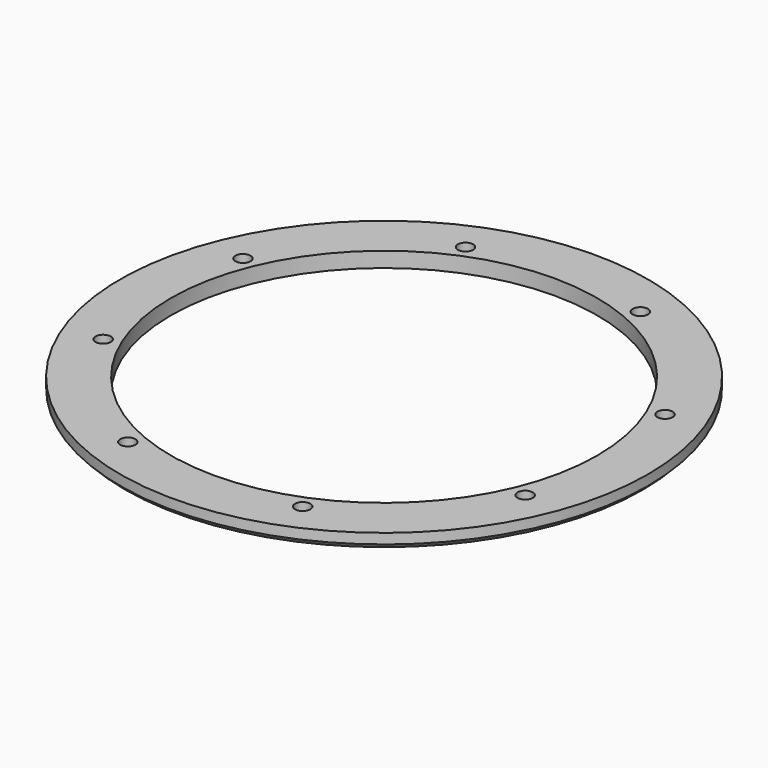
from build123d import *

# Parameters (mm, degrees)
CYLINDER658_R               = 1.5
CYLINDER658_DEPTH           = 20
CYLINDER658_PLACEMENT_ANGLE = 45
CYLINDER659_R               = 1.5
CYLINDER659_DEPTH           = 20
CYLINDER652_R               = 1.5
CYLINDER652_DEPTH           = 20
CYLINDER652_PLACEMENT_ANGLE = 135
CYLINDER655_R               = 1.5
CYLINDER655_DEPTH           = 20
CYLINDER657_R               = 1.5
CYLINDER657_DEPTH           = 20
CYLINDER657_PLACEMENT_ANGLE = 225
CYLINDER654_R               = 1.5
CYLINDER654_DEPTH           = 20
CYLINDER656_R               = 1.5
CYLINDER656_DEPTH           = 20
CYLINDER656_PLACEMENT_ANGLE = 45
CYLINDER653_R               = 1.5
CYLINDER653_DEPTH           = 20
COMPOUND660_PLACEMENT_ANGLE = 22.5
TUBE040_R                   = 52
TUBE040_R_2                 = 42
TUBE040_DEPTH               = 3
CHAMFER018_SIZE             = 1


with BuildPart() as obj1:
    # Cylinder658 → Cylinder658 (new body)
    with BuildSketch(Plane.XY):
        Circle(CYLINDER658_R)
    extrude(amount=CYLINDER658_DEPTH)


with BuildPart() as obj1_1:
    # Cylinder658 placement: moved
    add(obj1.part.moved(Location((-31.819805, 31.819805, -18))).rotate(Axis((-31.819805, 31.819805, -18), (0, 0, 1)), CYLINDER658_PLACEMENT_ANGLE))


with BuildPart() as obj2:
    # Cylinder659 → Cylinder659 (new body)
    with BuildSketch(Plane(origin=(-45, 0, -18), x_dir=(0, 1, 0), z_dir=(0, 0, 1))):
        Circle(CYLINDER659_R)
    extrude(amount=CYLINDER659_DEPTH)


with BuildPart() as obj3:
    # Cylinder652 → Cylinder652 (new body)
    with BuildSketch(Plane.XY):
        Circle(CYLINDER652_R)
    extrude(amount=CYLINDER652_DEPTH)


with BuildPart() as obj3_1:
    # Cylinder652 placement: moved
    add(obj3.part.moved(Location((-31.819805, -31.819805, -18))).rotate(Axis((-31.819805, -31.819805, -18), (0, 0, 1)), CYLINDER652_PLACEMENT_ANGLE))


with BuildPart() as obj4:
    # Cylinder655 → Cylinder655 (new body)
    with BuildSketch(Plane(origin=(0, -45, -18), x_dir=(-1, 0, 0), z_dir=(0, 0, 1))):
        Circle(CYLINDER655_R)
    extrude(amount=CYLINDER655_DEPTH)


with BuildPart() as obj5:
    # Cylinder657 → Cylinder657 (new body)
    with BuildSketch(Plane.XY):
        Circle(CYLINDER657_R)
    extrude(amount=CYLINDER657_DEPTH)


with BuildPart() as obj5_1:
    # Cylinder657 placement: moved
    add(obj5.part.moved(Location((31.819805, -31.819805, -18))).rotate(Axis((31.819805, -31.819805, -18), (0, 0, 1)), CYLINDER657_PLACEMENT_ANGLE))


with BuildPart() as obj6:
    # Cylinder654 → Cylinder654 (new body)
    with BuildSketch(Plane(origin=(45, 0, -18), x_dir=(0, -1, 0), z_dir=(0, 0, 1))):
        Circle(CYLINDER654_R)
    extrude(amount=CYLINDER654_DEPTH)


with BuildPart() as obj7:
    # Cylinder656 → Cylinder656 (new body)
    with BuildSketch(Plane.XY):
        Circle(CYLINDER656_R)
    extrude(amount=CYLINDER656_DEPTH)


with BuildPart() as obj7_1:
    # Cylinder656 placement: moved
    add(obj7.part.moved(Location((31.819805, 31.819805, -18))).rotate(Axis((31.819805, 31.819805, -18), (0, 0, -1)), CYLINDER656_PLACEMENT_ANGLE))


with BuildPart() as compound660:
    # Cylinder653 → Cylinder653 (new body)
    with BuildSketch(Plane(origin=(0, 45, -18), x_dir=(1, 0, 0), z_dir=(0, 0, 1))):
        Circle(CYLINDER653_R)
    extrude(amount=CYLINDER653_DEPTH)

    # Compound660: union obj1, obj2, obj3, obj4, obj5, obj6, obj7
    add(obj1_1.part)
    add(obj2.part)
    add(obj3_1.part)
    add(obj4.part)
    add(obj5_1.part)
    add(obj6.part)
    add(obj7_1.part)


with BuildPart() as compound660_1:
    # Compound660 placement: moved
    add(compound660.part.rotate(Axis((0, 0, 0), (0, 0, 1)), COMPOUND660_PLACEMENT_ANGLE))


with BuildPart() as j_max_motor_high_washer_a:
    # Tube040 → Tube040 (new body)
    with BuildSketch(Plane.XY.offset(-11)):
        Circle(TUBE040_R)
        Circle(TUBE040_R_2, mode=Mode.SUBTRACT)
    extrude(amount=TUBE040_DEPTH)

    # Cut290: cut Compound660
    add(compound660_1.part, mode=Mode.SUBTRACT)


with BuildPart() as j_max_motor_high_washer_a_1:
    # Cut290 placement: moved
    add(j_max_motor_high_washer_a.part.moved(Location((0, 0, -4))))

    # Chamfer018
    chamfer018_edges = [j_max_motor_high_washer_a_1.edges().sort_by_distance(p)[0] for p in [
        (-52, 0, -15),
    ]]
    chamfer(chamfer018_edges, length=CHAMFER018_SIZE)


with BuildPart() as j_max_motor_high_washer_a_2:
    # Chamfer018 placement: moved
    add(j_max_motor_high_washer_a_1.part.moved(Location((0, 0, 4))))


solid = j_max_motor_high_washer_a_2.part
